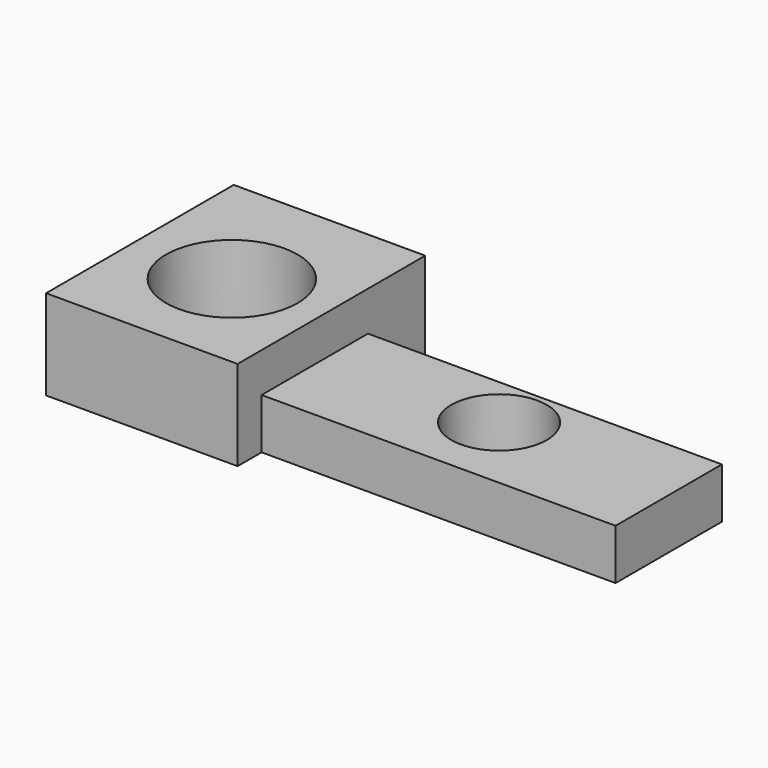
from build123d import *

# Parameters (mm, degrees)
F0_W     = 91.44
F0_H     = 35.094067
F1_DEPTH = 74.66243
F2_R     = 25.655488
F3_DEPTH = 59.964648
F4_W     = 51.819967
F4_H     = 19.67985
F5_DEPTH = 138.002442
F6_R     = 18.602683
F7_DEPTH = 87.077601


with BuildPart() as f1:
    # F0 (on Right) → F1 (new body)
    with BuildSketch(Plane.YZ):
        with Locations((2.991382, 39.639005)):
            Rectangle(F0_W, F0_H)
    extrude(amount=F1_DEPTH)

    # F2 (on face) → F3 (cut)
    with BuildSketch(Plane.XY.offset(57.186039)):
        with Locations((38.235784, 0)):
            Circle(F2_R)
    extrude(amount=-F3_DEPTH, mode=Mode.SUBTRACT)

    # F4 (on face) → F5 (join)
    with BuildSketch(Plane.YZ.offset(74.66243)):
        with Locations((-5.12249, 31.931897)):
            Rectangle(F4_W, F4_H)
    extrude(amount=F5_DEPTH)

    # F6 (on face) → F7 (cut)
    with BuildSketch(Plane.XY.offset(41.771822)):
        with Locations((142.413676, 0)):
            Circle(F6_R)
    extrude(amount=-F7_DEPTH, mode=Mode.SUBTRACT)


solid = f1.part
